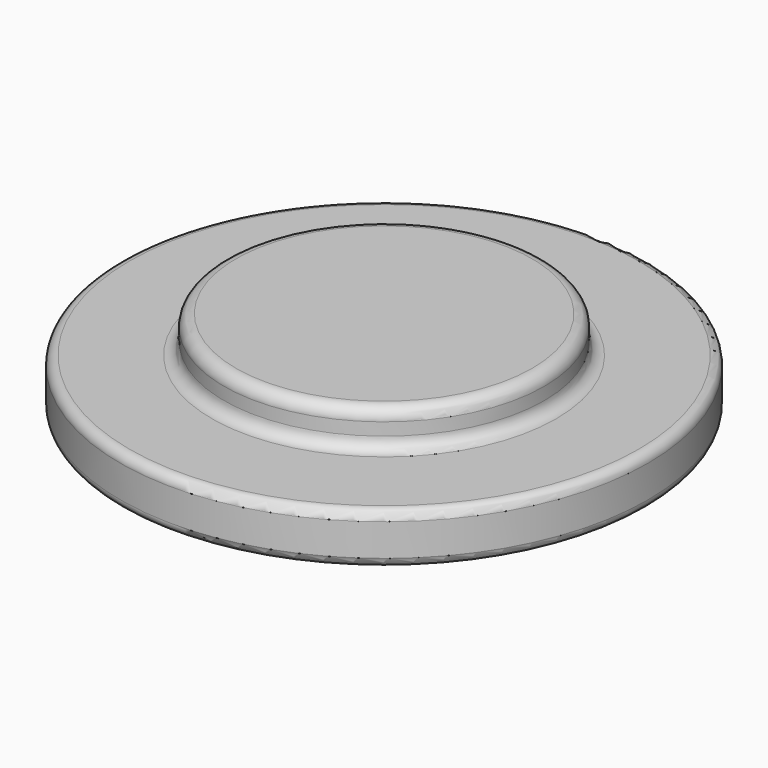
from build123d import *

# Parameters (mm, degrees)
F0_R     = 75.672097
F1_DEPTH = 14.57094
F2_R     = 45.928077
F3_DEPTH = 10.490498
F4_R     = 3.436595
F5_R     = 2.666092


with BuildPart() as f1:
    # F0 (on Top) → F1 (new body)
    with BuildSketch(Plane.XY):
        Circle(F0_R)
    extrude(amount=F1_DEPTH)

    # F2 (on face) → F3 (join)
    with BuildSketch(Plane.XY.offset(14.57094)):
        Circle(F2_R)
    extrude(amount=F3_DEPTH)

    # F4
    f4_edges = [f1.edges().sort_by_distance(p)[0] for p in [
        (45.928077, 0, 19.816189),
        (-45.928077, 0, 14.57094),
        (-45.928077, 0, 25.061438),
    ]]
    fillet(f4_edges, radius=F4_R)

    # F5
    f5_edges = [f1.edges().sort_by_distance(p)[0] for p in [
        (75.672097, 0, 7.28547),
        (-75.672097, 0, 0),
        (-75.672097, 0, 14.57094),
    ]]
    fillet(f5_edges, radius=F5_R)


solid = f1.part
